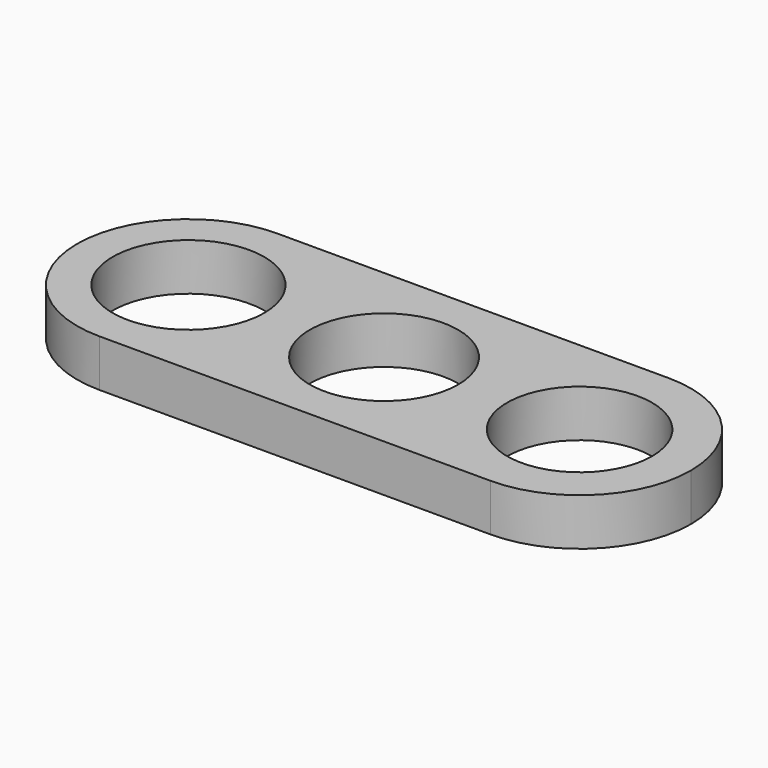
from build123d import *

# Parameters (mm, degrees)
F0_R     = 11.25
F0_R_2   = 11
F0_R_3   = 10.75
F1_DEPTH = 7


with BuildPart() as f1:
    # F0 (on Top) → F1 (new body)
    with BuildSketch(Plane.XY):
        with BuildLine():
            ThreePointArc((-32.789394, -10.704797), (-21.122132, -5.872059), (-16.289394, 5.795203))
            ThreePointArc((-16.289394, 5.795203), (-21.122132, 17.462465), (-32.789394, 22.295203))
            ThreePointArc((-32.789394, 22.295203), (-49.289394, 5.795203), (-32.789394, -10.704797))
        make_face()
        with Locations((-32.789394, 5.795203)):
            Circle(F0_R, mode=Mode.SUBTRACT)
        with BuildLine():
            ThreePointArc((-32.789394, 22.295203), (-21.122132, 17.462465), (-16.289394, 5.795203))
            ThreePointArc((-16.289394, 5.795203), (-21.122132, -5.872059), (-32.789394, -10.704797))
            Line((-32.789394, -10.704797), (25.210606, -10.704797))
            ThreePointArc((25.210606, -10.704797), (8.710606, 5.795203), (25.210606, 22.295203))
            Line((25.210606, 22.295203), (-32.789394, 22.295203))
        make_face()
        with Locations((-3.789394, 5.795203)):
            Circle(F0_R_2, mode=Mode.SUBTRACT)
        with BuildLine():
            ThreePointArc((-32.789394, 22.295203), (-21.122132, 17.462465), (-16.289394, 5.795203))
            ThreePointArc((-16.289394, 5.795203), (-21.122132, -5.872059), (-32.789394, -10.704797))
            Line((-32.789394, -10.704797), (25.210606, -10.704797))
            ThreePointArc((25.210606, -10.704797), (8.710606, 5.795203), (25.210606, 22.295203))
            Line((25.210606, 22.295203), (-32.789394, 22.295203))
        make_face()
        with Locations((-3.789394, 5.795203)):
            Circle(F0_R_2, mode=Mode.SUBTRACT)
        with BuildLine():
            ThreePointArc((41.710606, 5.795203), (36.877868, 17.462465), (25.210606, 22.295203))
            ThreePointArc((25.210606, 22.295203), (8.710606, 5.795203), (25.210606, -10.704797))
            ThreePointArc((25.210606, -10.704797), (36.877868, -5.872059), (41.710606, 5.795203))
        make_face()
        with Locations((25.210606, 5.795203)):
            Circle(F0_R_3, mode=Mode.SUBTRACT)
    extrude(amount=F1_DEPTH)


solid = f1.part
